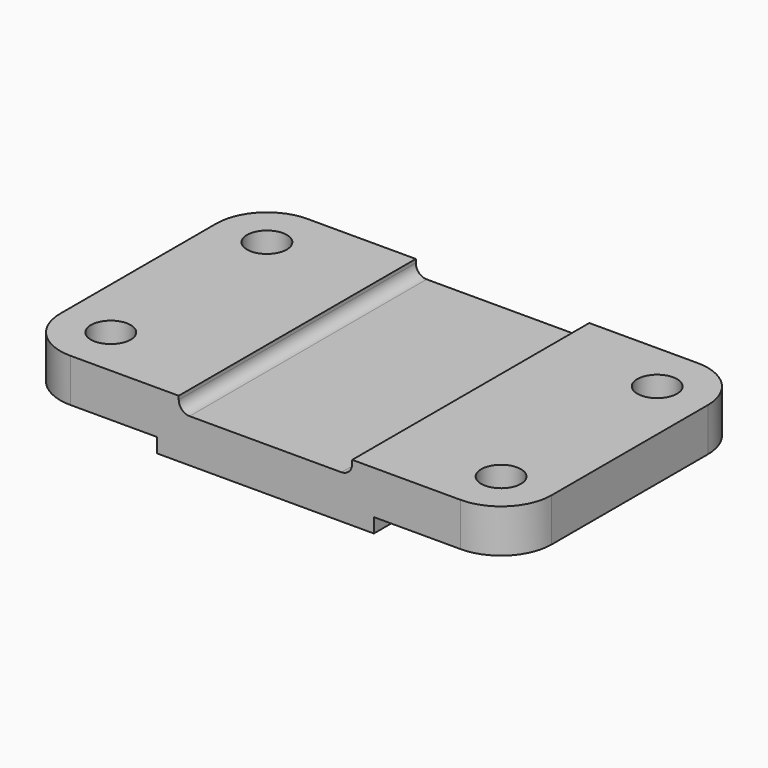
from build123d import *

# Parameters (mm, degrees)
F0_R     = 5.5
F0_W     = 48
F0_H     = 82
F1_DEPTH = 16
F2_W     = 38
F2_H     = 4
F3_DEPTH = 49.362445
F4_DEPTH = 32.639555


with BuildPart() as f1:
    # F0 (on Top) → F1 (new body)
    with BuildSketch(Plane.XY):
        with BuildLine():
            Line((-25.433272, 49.361445), (-50.457819, 49.361445))
            ThreePointArc((-50.457819, 49.361445), (-60.357314, 45.26094), (-64.457819, 35.361445))
            Line((-64.457819, 35.361445), (-64.457819, -18.638555))
            ThreePointArc((-64.457819, -18.638555), (-60.357314, -28.53805), (-50.457819, -32.638555))
            Line((-50.457819, -32.638555), (-25.433272, -32.638555))
            Line((-25.433272, -32.638555), (-25.433272, 49.361445))
        make_face()
        with Locations((-50.457819, -18.638555)):
            Circle(F0_R, mode=Mode.SUBTRACT)
        with Locations((-50.457819, 35.361445)):
            Circle(F0_R, mode=Mode.SUBTRACT)
        with Locations((-1.433272, 8.361445)):
            Rectangle(F0_W, F0_H)
        with BuildLine():
            Line((57.542181, 49.361445), (22.566728, 49.361445))
            Line((22.566728, 49.361445), (22.566728, -32.638555))
            Line((22.566728, -32.638555), (57.542181, -32.638555))
            ThreePointArc((57.542181, -32.638555), (67.441676, -28.53805), (71.542181, -18.638555))
            Line((71.542181, -18.638555), (71.542181, 35.361445))
            ThreePointArc((71.542181, 35.361445), (67.441676, 45.26094), (57.542181, 49.361445))
        make_face()
        with Locations((57.542181, -18.638555)):
            Circle(F0_R, mode=Mode.SUBTRACT)
        with Locations((57.542181, 35.361445)):
            Circle(F0_R, mode=Mode.SUBTRACT)
    extrude(amount=F1_DEPTH)

    # F2 (on Front) → F3 (cut, through all)
    with BuildSketch(Plane.XZ):
        with Locations((-45.457819, 2)):
            Rectangle(F2_W, F2_H)
        with Locations((52.542181, 2)):
            Rectangle(F2_W, F2_H)
        with BuildLine():
            Line((27.542181, 16), (-20.457819, 16))
            Line((-20.457819, 16), (-20.457819, 15))
            ThreePointArc((-20.457819, 15), (-19.579139, 12.87868), (-17.457819, 12))
            Line((-17.457819, 12), (24.542181, 12))
            ThreePointArc((24.542181, 12), (26.663501, 12.87868), (27.542181, 15))
            Line((27.542181, 15), (27.542181, 16))
        make_face()
    extrude(amount=-F3_DEPTH, mode=Mode.SUBTRACT)

    # F2 (on Front) → F4 (cut, through all)
    with BuildSketch(Plane.XZ):
        with Locations((-45.457819, 2)):
            Rectangle(F2_W, F2_H)
        with Locations((52.542181, 2)):
            Rectangle(F2_W, F2_H)
        with BuildLine():
            Line((27.542181, 16), (-20.457819, 16))
            Line((-20.457819, 16), (-20.457819, 15))
            ThreePointArc((-20.457819, 15), (-19.579139, 12.87868), (-17.457819, 12))
            Line((-17.457819, 12), (24.542181, 12))
            ThreePointArc((24.542181, 12), (26.663501, 12.87868), (27.542181, 15))
            Line((27.542181, 15), (27.542181, 16))
        make_face()
    extrude(amount=F4_DEPTH, mode=Mode.SUBTRACT)


solid = f1.part
